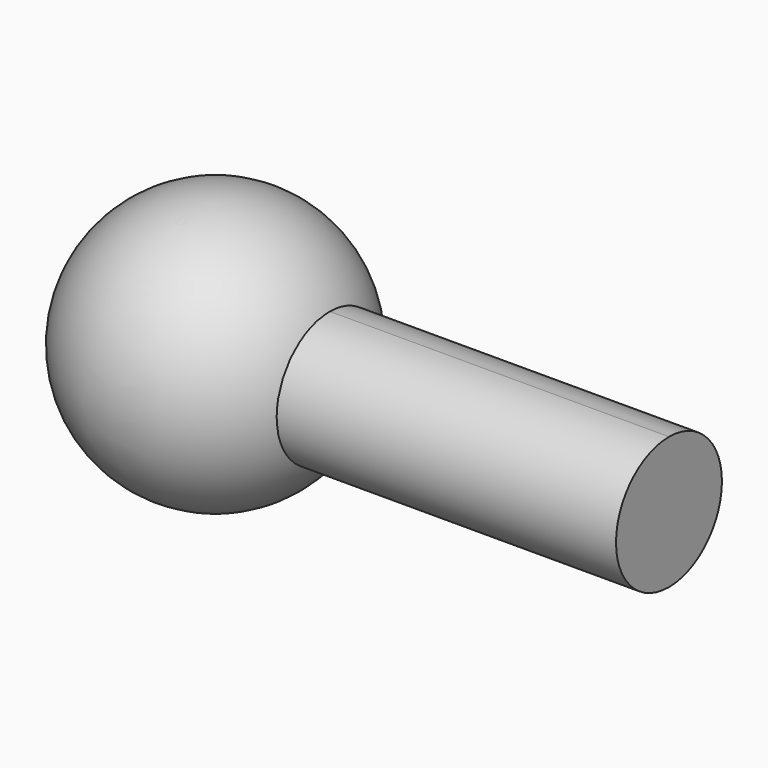
from build123d import *

# Parameters (mm, degrees)
F3_DEPTH = 27.2034


with BuildPart() as f1:
    # F0 (on Right) → F1 (revolve)
    with BuildSketch(Plane.YZ):
        with BuildLine():
            Line((0, -7.9375), (0, 7.9375))
            ThreePointArc((0, 7.9375), (-7.9375, 0), (0, -7.9375))
        make_face()
    revolve(axis=Axis((0, 0, 0), (0, 0, -1)))


with BuildPart() as f3:
    # F2 (on face) → F3 (new body)
    with BuildSketch(Plane.YZ):
        with BuildLine():
            ThreePointArc((0, -3.96875), (2.80633, -2.80633), (3.96875, 0))
            ThreePointArc((3.96875, 0), (2.80633, 2.80633), (0, 3.96875))
            Line((0, 3.96875), (0, -3.96875))
        make_face()
        with BuildLine():
            Line((0, -3.96875), (0, 3.96875))
            ThreePointArc((0, 3.96875), (-3.96875, 0), (0, -3.96875))
        make_face()
    extrude(amount=F3_DEPTH)


solid = Compound([f1.part, f3.part])
